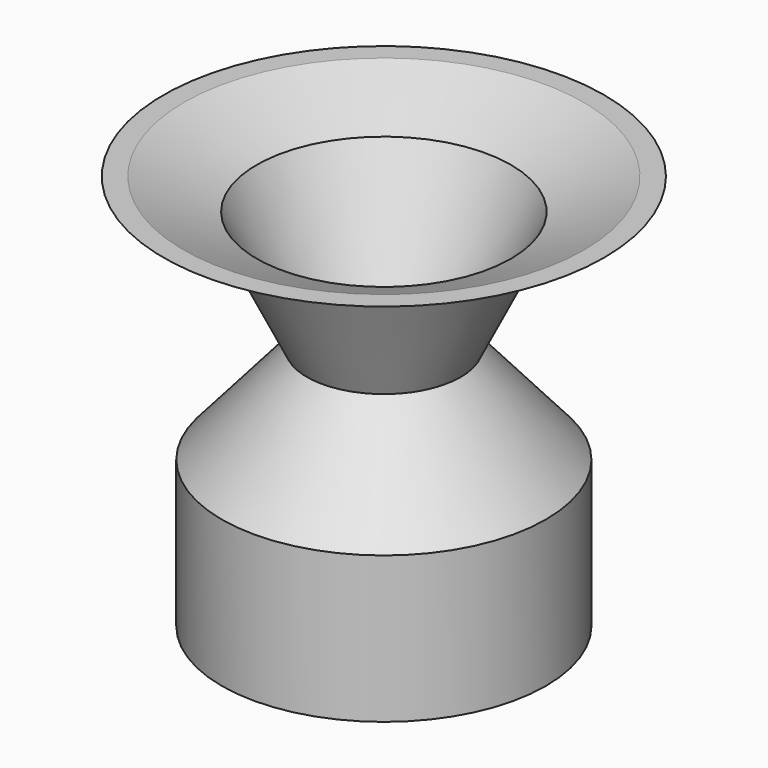
from build123d import *

# Parameters (mm, degrees)
F2_T = -1.27


with BuildPart() as f1:
    # F0 (on Front) → F1 (revolve)
    with BuildSketch(Plane.XZ):
        Polygon((0, 62.8532171249), (0, 0), (25.7351733744, 0), (25.7351733744, 23.2606399804), (12.2077101842, 38.7677326798), (21.116040647, 56.9143295288), (34.9734425545, 62.8532171249), align=None)
    revolve(axis=Axis((0, 0, 31.4266085625), (0, 0, -1)))

    # F2
    f2_openings = [f1.faces().sort_by_distance(p)[0] for p in [
        (0, 0, 62.853217),
    ]]
    offset(amount=F2_T, openings=f2_openings, kind=Kind.INTERSECTION)


solid = f1.part
